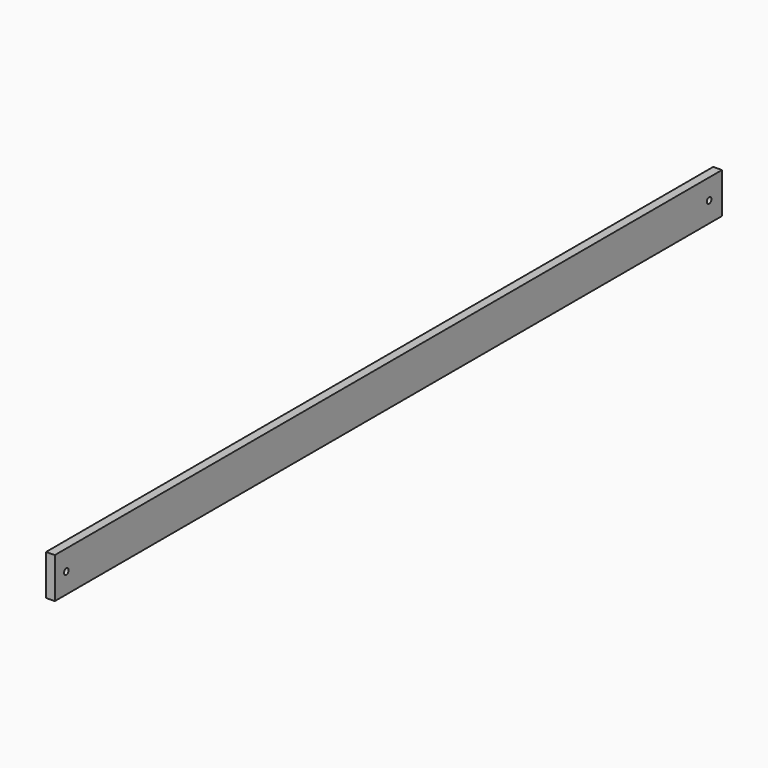
from build123d import *

# Parameters (mm, degrees)
F0_W     = 3657.6
F0_H     = 177.8
F0_R     = 12.7
F0_W_2   = 0.911512
F0_H_2   = 5.924806
F1_DEPTH = 38.1


with BuildPart() as f1:
    # F0 (on Right) → F1 (new body)
    with BuildSketch(Plane.YZ):
        with Locations((1597.833786, 100.690947)):
            Rectangle(F0_W, F0_H)
        with Locations((-167.466214, 100.690947)):
            Circle(F0_R, mode=Mode.SUBTRACT)
        with Locations((-79.20612, 112.905398)):
            Rectangle(F0_W_2, F0_H_2, mode=Mode.SUBTRACT)
        with Locations((3356.783786, 100.690947)):
            Circle(F0_R, mode=Mode.SUBTRACT)
    extrude(amount=F1_DEPTH)


solid = f1.part
